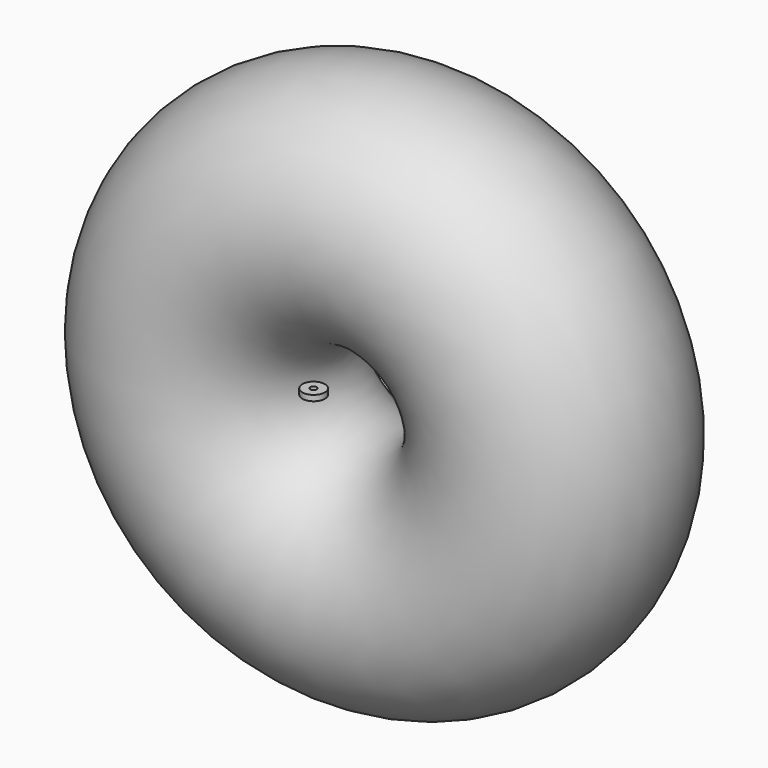
from build123d import *

# Parameters (mm, degrees)
F0_R     = 6.35
F0_R_2   = 1.785938
F1_DEPTH = 3.175
F2_R     = 65.901722


with BuildPart() as f1:
    # F0 (on Top) → F1 (new body)
    with BuildSketch(Plane.XY):
        Circle(F0_R)
        Circle(F0_R_2, mode=Mode.SUBTRACT)
    extrude(amount=F1_DEPTH)


with BuildPart() as f3:
    # F2 (on Top) → F3 (revolve)
    with BuildSketch(Plane.XY):
        with Locations((-71.733102, 19.743681)):
            Circle(F2_R)
    revolve(axis=Axis((16.442643, 44.074384, 0), (0.086389, -0.996262, 0)))


solid = Compound([f1.part, f3.part])
